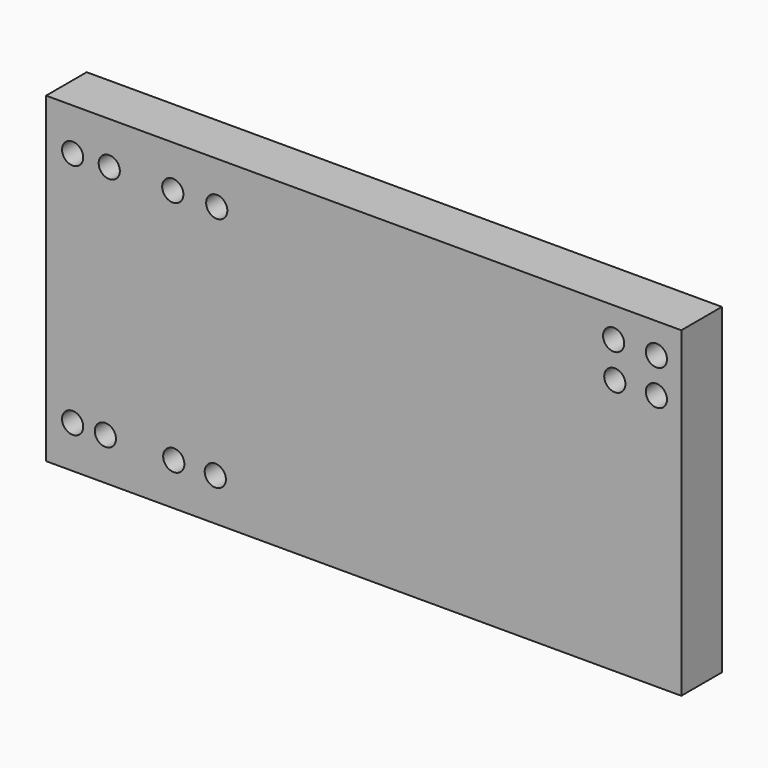
from build123d import *

# Parameters (mm, degrees)
F0_W     = 150.0124
F0_H     = 75.9968
F0_R     = 2.5019
F1_DEPTH = 11.9888


with BuildPart() as f1:
    # F0 (on Front) → F1 (new body)
    with BuildSketch(Plane.XZ):
        with Locations((54.32346, 20.756148)):
            Rectangle(F0_W, F0_H)
        with Locations((-14.410786, -7.234652)):
            Circle(F0_R, mode=Mode.SUBTRACT)
        with Locations((-6.677843, -7.234652)):
            Circle(F0_R, mode=Mode.SUBTRACT)
        with Locations((9.472731, -7.234652)):
            Circle(F0_R, mode=Mode.SUBTRACT)
        with Locations((19.279094, -7.234652)):
            Circle(F0_R, mode=Mode.SUBTRACT)
        with Locations((-14.410786, 48.746948)):
            Circle(F0_R, mode=Mode.SUBTRACT)
        with Locations((-5.7613, 48.746948)):
            Circle(F0_R, mode=Mode.SUBTRACT)
        with Locations((9.23758, 48.746948)):
            Circle(F0_R, mode=Mode.SUBTRACT)
        with Locations((19.620731, 48.746948)):
            Circle(F0_R, mode=Mode.SUBTRACT)
        with Locations((113.628924, 43.260548)):
            Circle(F0_R, mode=Mode.SUBTRACT)
        with Locations((123.448476, 43.260548)):
            Circle(F0_R, mode=Mode.SUBTRACT)
        with Locations((113.354191, 51.612829)):
            Circle(F0_R, mode=Mode.SUBTRACT)
        with Locations((123.448476, 51.612829)):
            Circle(F0_R, mode=Mode.SUBTRACT)
    extrude(amount=F1_DEPTH)


solid = f1.part
